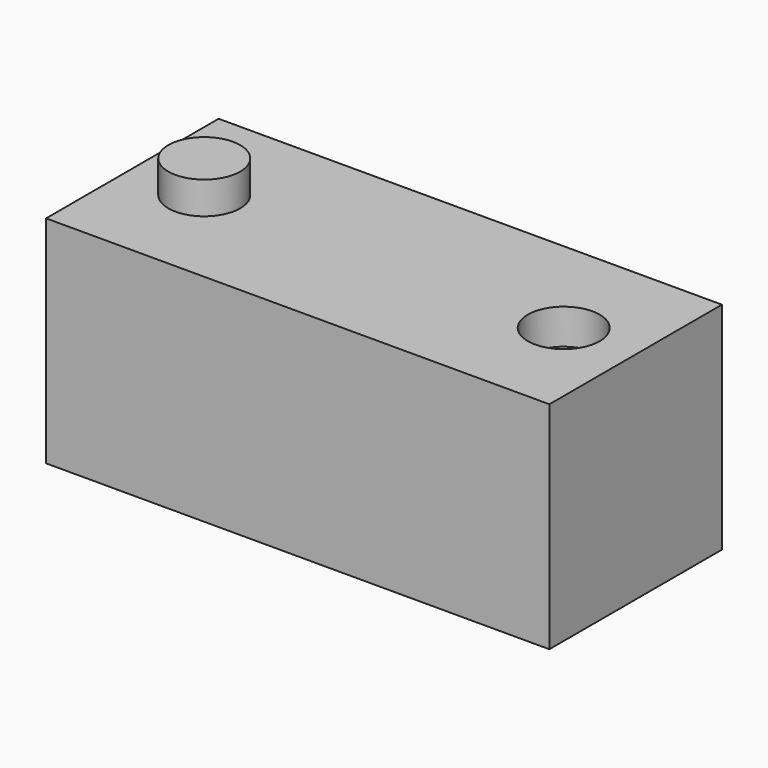
from build123d import *

# Parameters (mm, degrees)
F0_W     = 140
F0_H     = 60
F1_DEPTH = 60
F3_R     = 10
F5_DEPTH = 69
F4_R     = 10
F6_DEPTH = 9.8


with BuildPart() as f1:
    # F0 (on Top) → F1 (new body)
    with BuildSketch(Plane.XY):
        Rectangle(F0_W, F0_H)
    extrude(amount=F1_DEPTH)

    # F3 (on Top) → F5 (join)
    with BuildSketch(Plane.XY):
        with Locations((-50, 0)):
            Circle(F3_R)
    extrude(amount=F5_DEPTH)

    # F4 (on face) → F6 (cut)
    with BuildSketch(Plane.XY.offset(60)):
        with Locations((50, 0)):
            Circle(F4_R)
    extrude(amount=-F6_DEPTH, mode=Mode.SUBTRACT)


solid = f1.part
